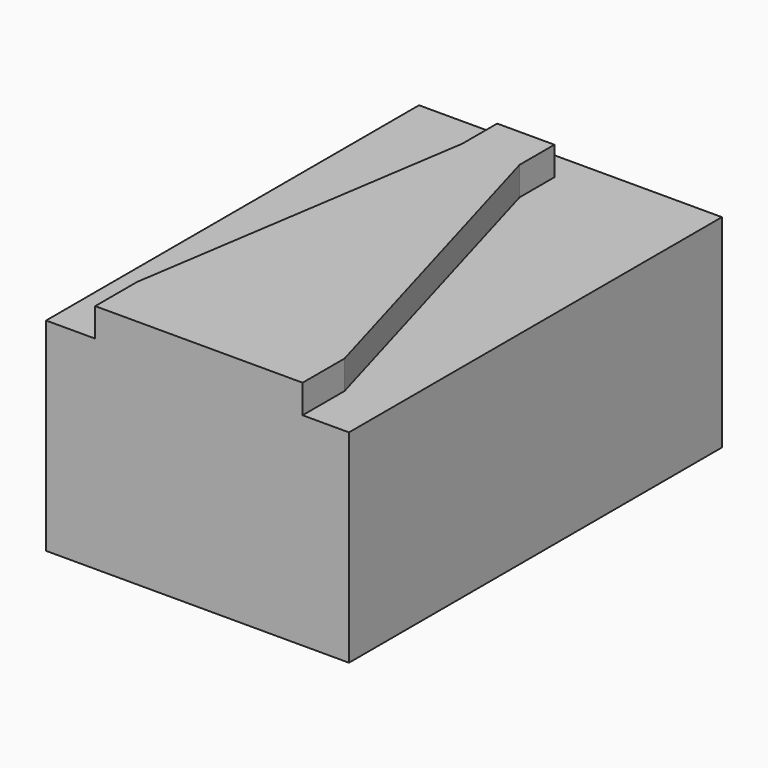
from build123d import *

# Parameters (mm, degrees)
F0_W       = 128.8954913616
F0_H       = 86.3029435277
F1_DEPTH   = 198.374
F2_W       = 88.2518328726
F2_H       = 22.2966937294
F2_W_2     = 24.353325367
F2_H_2     = 18.542567268
F3_DEPTH   = 12.192
F3_FACE_W  = 24.353325367
F3_FACE_H  = 12.192
F3_FACE1_W = 88.2518328726
F3_FACE1_H = 12.192


with BuildPart() as f1:
    # F0 (on Front) → F1 (new body)
    with BuildSketch(Plane.XZ):
        with Locations((64.4477456808, 43.1514717638)):
            Rectangle(F0_W, F0_H)
    extrude(amount=F1_DEPTH)

    # F2 (on face) → F3 (join)
    with BuildSketch(Plane.XY.offset(86.3029435277)):
        with Locations((65.0349687785, -187.2256531353)):
            Rectangle(F2_W, F2_H)
        with Locations((55.3243383765, -21.625594236)):
            Rectangle(F2_W_2, F2_H_2)
    extrude(amount=F3_DEPTH)

    # F3_face (on face) → F4 section 0
    with BuildSketch(Plane(origin=(55.3243383765, -30.89687787, 92.3989435277), x_dir=(1, 0, 0), z_dir=(0, -1, 0))):
        Rectangle(F3_FACE_W, F3_FACE_H)
    # F3_face1 (on face) → F4 section 1
    with BuildSketch(Plane(origin=(65.0349687785, -176.0773062706, 92.3989435277), x_dir=(-1, 0, 0), z_dir=(0, 1, 0))):
        Rectangle(F3_FACE1_W, F3_FACE1_H)
    loft()


solid = f1.part
